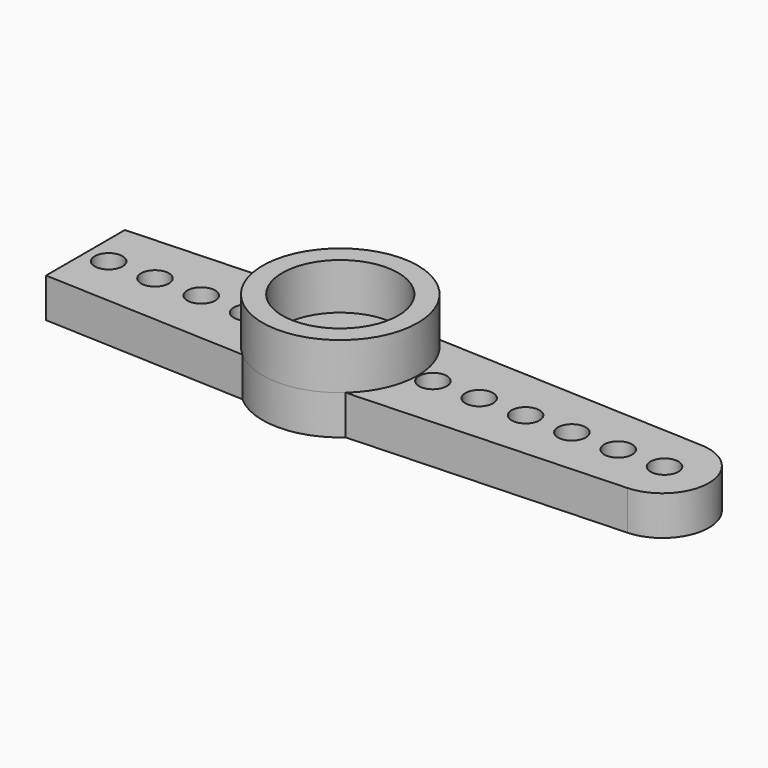
from build123d import *

# Parameters (mm, degrees)
F0_R     = 0.6
F1_DEPTH = 1.7
F2_R     = 3.35
F3_DEPTH = 2
F4_R     = 2.5
F5_DEPTH = 1
F6_R     = 1.1
F7_DEPTH = 2.701
F8_R     = 2.5
F9_DEPTH = 2


with BuildPart() as f1:
    # F0 (on Top) → F1 (new body)
    with BuildSketch(Plane.XY):
        with BuildLine():
            ThreePointArc((2.2299103121, -2.5), (3.057180036, -1.369726333), (3.35, 0))
            ThreePointArc((3.35, 0), (3.057180036, 1.369726333), (2.2299103121, 2.5))
            ThreePointArc((2.2299103121, 2.5), (0, 3.35), (-2.2299103121, 2.5))
            ThreePointArc((-2.2299103121, 2.5), (-3.35, 0), (-2.2299103121, -2.5))
            ThreePointArc((-2.2299103121, -2.5), (0, -3.35), (2.2299103121, -2.5))
        make_face()
        with BuildLine():
            ThreePointArc((2.2299103121, 2.5), (3.057180036, 1.369726333), (3.35, 0))
            ThreePointArc((3.35, 0), (3.057180036, -1.369726333), (2.2299103121, -2.5))
            Line((2.2299103121, -2.5), (14, -2))
            ThreePointArc((14, -2), (15.9168426648, 0), (14, 2))
            Line((14, 2), (2.2299103121, 2.5))
        make_face()
        with Locations((4, 0)):
            Circle(F0_R, mode=Mode.SUBTRACT)
        with Locations((6, 0)):
            Circle(F0_R, mode=Mode.SUBTRACT)
        with Locations((8, 0)):
            Circle(F0_R, mode=Mode.SUBTRACT)
        with Locations((10, 0)):
            Circle(F0_R, mode=Mode.SUBTRACT)
        with Locations((12, 0)):
            Circle(F0_R, mode=Mode.SUBTRACT)
        with Locations((14, 0)):
            Circle(F0_R, mode=Mode.SUBTRACT)
        with BuildLine():
            ThreePointArc((-2.2299103121, -2.5), (-3.35, 0), (-2.2299103121, 2.5))
            Line((-2.2299103121, 2.5), (-11, 2.1274416797))
            Line((-11, 2.1274416797), (-11, -2.1274416797))
            Line((-11, -2.1274416797), (-2.2299103121, -2.5))
        make_face()
        with Locations((-10, 0)):
            Circle(F0_R, mode=Mode.SUBTRACT)
        with Locations((-8, 0)):
            Circle(F0_R, mode=Mode.SUBTRACT)
        with Locations((-6, 0)):
            Circle(F0_R, mode=Mode.SUBTRACT)
        with Locations((-4, 0)):
            Circle(F0_R, mode=Mode.SUBTRACT)
    extrude(amount=F1_DEPTH)

    # F2 (on face) → F3 (join)
    with BuildSketch(Plane.XY.offset(1.7)):
        Circle(F2_R)
    extrude(amount=F3_DEPTH)

    # F4 (on face) → F5 (cut)
    with BuildSketch(Plane(origin=(0, 0, 0), x_dir=(1, 0, 0), z_dir=(0, 0, -1))):
        Circle(F4_R)
    extrude(amount=-F5_DEPTH, mode=Mode.SUBTRACT)

    # F6 (on face) → F7 (cut, through all)
    with BuildSketch(Plane(origin=(0, 0, 1), x_dir=(1, 0, 0), z_dir=(0, 0, -1))):
        Circle(F6_R)
    extrude(amount=-F7_DEPTH, mode=Mode.SUBTRACT)

    # F8 (on face) → F9 (cut)
    with BuildSketch(Plane.XY.offset(3.7)):
        Circle(F8_R)
    extrude(amount=-F9_DEPTH, mode=Mode.SUBTRACT)


solid = f1.part
